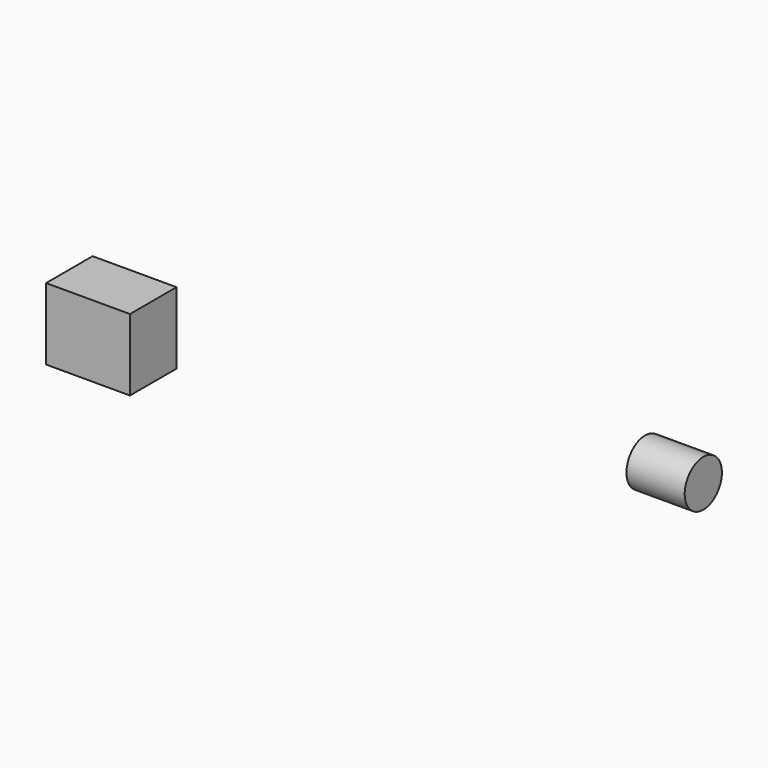
from build123d import *

# Parameters (mm, degrees)
F0_W     = 36.025926
F0_H     = 30.819079
F1_DEPTH = 25
F2_W     = 25
F2_H     = 10


with BuildPart() as f1:
    # F0 (on Front) → F1 (new body)
    with BuildSketch(Plane.XZ):
        with Locations((-94.446376, 40.892862)):
            Rectangle(F0_W, F0_H)
    extrude(amount=F1_DEPTH)


with BuildPart() as f3:
    # F2 (on Front) → F3 (revolve)
    with BuildSketch(Plane.XZ):
        with Locations((137.353847, 60.721313)):
            Rectangle(F2_W, F2_H)
    revolve(axis=Axis((137.353847, 0, 55.721313), (1, 0, 0)))


solid = Compound([f1.part, f3.part])
